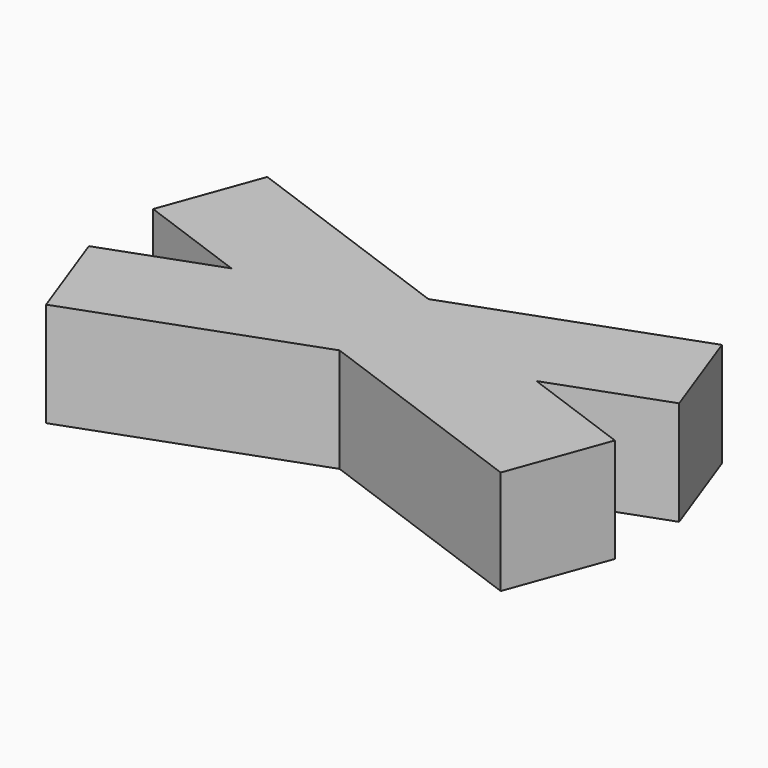
from build123d import *

# Parameters (mm, degrees)
BOX001_W               = 10
BOX001_H               = 2
BOX001_DEPTH           = 2
BOX001_PLACEMENT_ANGLE = 20
BOX_W                  = 10
BOX_H                  = 2
BOX_DEPTH              = 2
BOX_PLACEMENT_ANGLE    = 20


with BuildPart() as cub001:
    # Box001 → Box001 (new body)
    with BuildSketch(Plane.XY):
        with Locations((5, 1)):
            Rectangle(BOX001_W, BOX001_H)
    extrude(amount=BOX001_DEPTH)


with BuildPart() as cub001_1:
    # Box001 placement: moved
    add(cub001.part.moved(Location((-0.040483, 1.770408, 0))).rotate(Axis((-0.040483, 1.770408, 0), (0, 0, -1)), BOX001_PLACEMENT_ANGLE))


with BuildPart() as fusion:
    # Box → Box (new body)
    with BuildSketch(Plane.XY):
        with Locations((5, 1)):
            Rectangle(BOX_W, BOX_H)
    extrude(amount=BOX_DEPTH)


with BuildPart() as fusion_1:
    # Box placement: moved
    add(fusion.part.moved(Location((0.643557, -1.649793, 0))).rotate(Axis((0.643557, -1.649793, 0), (0, 0, 1)), BOX_PLACEMENT_ANGLE))

    # Fusion: union Cub001
    add(cub001_1.part)


with BuildPart() as fusion_2:
    # Fusion placement: moved
    add(fusion_1.part.moved(Location((-5, -1, 0))))


solid = fusion_2.part
